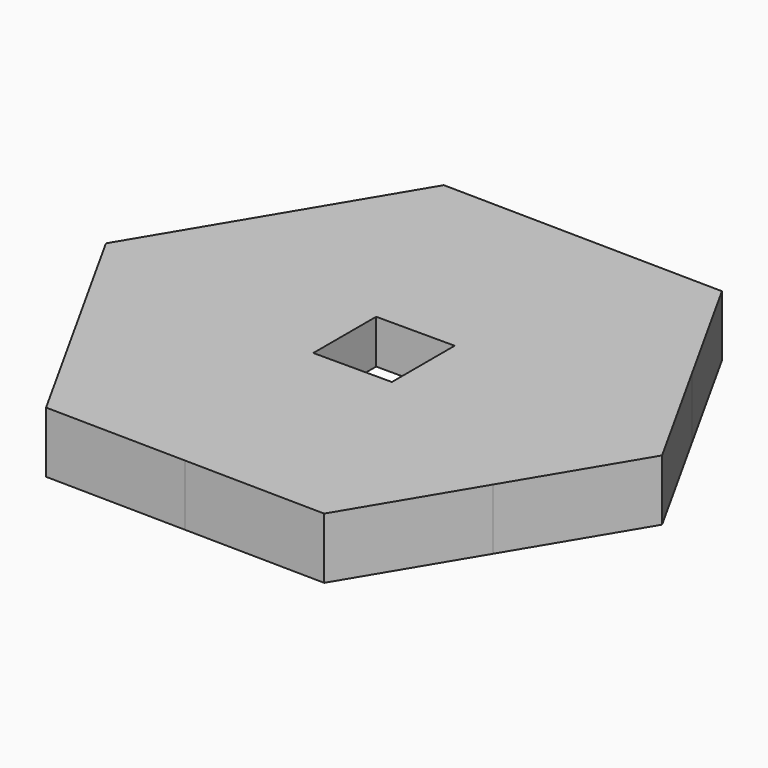
from build123d import *

# Parameters (mm, degrees)
F0_R     = 9.271
F0_W     = 8.1788
F0_H     = 8.1788
F1_DEPTH = 6.35
F2_DEPTH = 1.778


with BuildPart() as f1:
    # F0 (on Top) → F1 (new body)
    with BuildSketch(Plane.XY):
        with BuildLine():
            ThreePointArc((21.7969618714, -13.0404161427), (24.4826758294, -6.7645091642), (25.4, 0))
            ThreePointArc((25.4, 0), (24.5848737642, 6.3831012839), (22.1918124409, 12.3565149045))
            ThreePointArc((22.1918124409, 12.3565149045), (13.0404159786, 21.7969619696), (0.3948506462, 25.3969307785))
            ThreePointArc((0.3948506462, 25.3969307785), (-12.3565148847, 22.191812452), (-21.7969621275, 13.0404157147))
            ThreePointArc((-21.7969621275, 13.0404157147), (-25.3969307892, 0.3948499567), (-22.1918120914, -12.3565155323))
            ThreePointArc((-22.1918120914, -12.3565155323), (-13.0404155443, -21.7969622294), (-0.3948503527, -25.396930783))
            ThreePointArc((-0.3948503527, -25.396930783), (12.356514795, -22.1918125019), (21.7969618714, -13.0404161427))
        make_face()
        Circle(F0_R, mode=Mode.SUBTRACT)
        with BuildLine():
            ThreePointArc((-21.7969621275, 13.0404157147), (-12.3565148847, 22.191812452), (0.3948506462, 25.3969307785))
            Line((0.3948506462, 25.3969307785), (-14.2680745061, 25.6248977212))
            Line((-14.2680745061, 25.6248977212), (-21.7969621275, 13.0404157147))
        make_face()
        with BuildLine():
            ThreePointArc((0.3948506462, 25.3969307785), (13.0404159786, 21.7969619696), (22.1918124409, 12.3565149045))
            Line((22.1918124409, 12.3565149045), (15.0577751429, 25.168963846))
            Line((15.0577751429, 25.168963846), (0.3948506462, 25.3969307785))
        make_face()
        with BuildLine():
            ThreePointArc((22.1918124409, 12.3565149045), (24.5848737642, 6.3831012839), (25.4, 0))
            ThreePointArc((25.4, 0), (24.4826758294, -6.7645091642), (21.7969618714, -13.0404161427))
            Line((21.7969618714, -13.0404161427), (29.325849649, -0.4559338752))
            Line((29.325849649, -0.4559338752), (22.1918124409, 12.3565149045))
        make_face()
        with BuildLine():
            Line((14.2680745061, -25.6248977212), (21.7969618714, -13.0404161427))
            ThreePointArc((21.7969618714, -13.0404161427), (12.356514795, -22.1918125019), (-0.3948503527, -25.396930783))
            Line((-0.3948503527, -25.396930783), (14.2680745061, -25.6248977212))
        make_face()
        with BuildLine():
            Line((-15.0577751429, -25.168963846), (-0.3948503527, -25.396930783))
            ThreePointArc((-0.3948503527, -25.396930783), (-13.0404155443, -21.7969622294), (-22.1918120914, -12.3565155323))
            Line((-22.1918120914, -12.3565155323), (-15.0577751429, -25.168963846))
        make_face()
        with BuildLine():
            ThreePointArc((-22.1918120914, -12.3565155323), (-25.3969307892, 0.3948499567), (-21.7969621275, 13.0404157147))
            Line((-21.7969621275, 13.0404157147), (-29.325849649, 0.4559338752))
            Line((-29.325849649, 0.4559338752), (-22.1918120914, -12.3565155323))
        make_face()
        Circle(F0_R)
        Rectangle(F0_W, F0_H, mode=Mode.SUBTRACT)
    extrude(amount=F1_DEPTH)

    # F0 (on Top) → F2 (cut)
    with BuildSketch(Plane.XY):
        Circle(F0_R)
        Rectangle(F0_W, F0_H, mode=Mode.SUBTRACT)
    extrude(amount=F2_DEPTH, mode=Mode.SUBTRACT)


solid = f1.part
